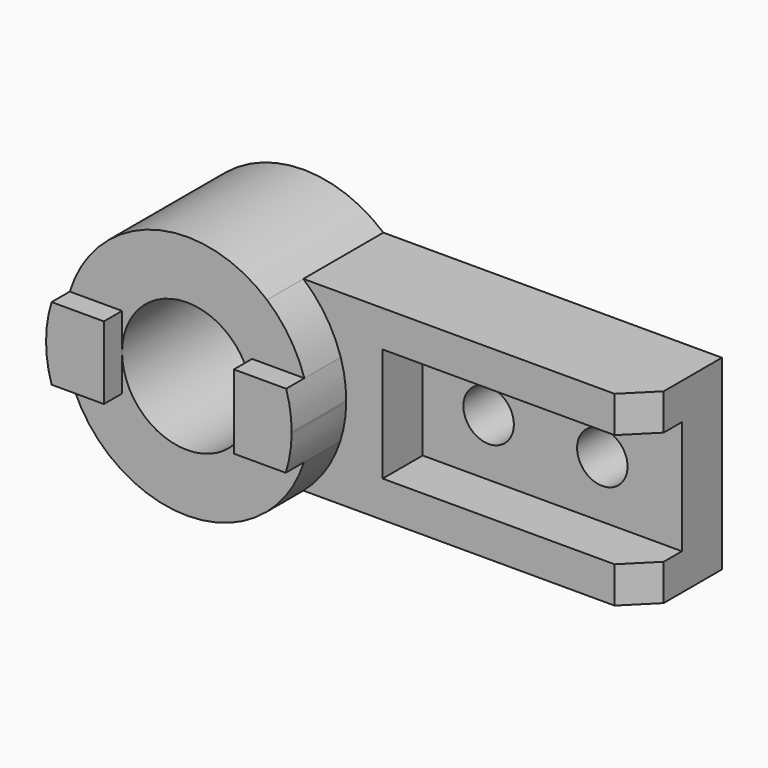
from build123d import *

# Parameters (mm, degrees)
F0_R     = 11.1
F1_DEPTH = 22
F2_DEPTH = 44
F3_DEPTH = 64
F4_DEPTH = 74
F5_SIZE  = 12


with BuildPart() as f1:
    # F0 (on Front) → F1 (new body)
    with BuildSketch(Plane.XZ):
        Polygon((184.0099021196, -25), (184.0099021196, 25), (70.0099021196, 25), (70.0099021196, 0), (70.0099021196, -25), align=None)
        with Locations((99.0099021196, 0)):
            Circle(F0_R, mode=Mode.SUBTRACT)
        with Locations((149.0099021196, 0)):
            Circle(F0_R, mode=Mode.SUBTRACT)
    extrude(amount=F1_DEPTH)

    # F0 (on Front) → F2 (join)
    with BuildSketch(Plane.XZ):
        with BuildLine():
            ThreePointArc((51.5751878329, 16), (53.3903556037, 8.0913489921), (54, 0))
            ThreePointArc((54, 0), (53.9991081797, -0.3103478577), (53.9964327484, -0.6206854644))
            ThreePointArc((53.9964327484, -0.6206854644), (53.2913728634, -8.7194941557), (51.3785248396, -16.6206854644))
            ThreePointArc((51.3785248396, -16.6206854644), (44.9451061645, -29.9322139486), (35.1425667816, -41))
            Line((35.1425667816, -41), (184.0099021196, -41))
            Line((184.0099021196, -41), (184.0099021196, -25))
            Line((184.0099021196, -25), (70.0099021196, -25))
            Line((70.0099021196, -25), (70.0099021196, 0))
            Line((70.0099021196, 0), (70.0099021196, 25))
            Line((70.0099021196, 25), (184.0099021196, 25))
            Line((184.0099021196, 25), (184.0099021196, 41))
            Line((184.0099021196, 41), (35.1425667816, 41))
            ThreePointArc((35.1425667816, 41), (45.1247409006, 29.6607106903), (51.5751878329, 16))
        make_face()
    extrude(amount=F2_DEPTH)

    # F0 (on Front) → F3 (join)
    with BuildSketch(Plane.XZ):
        with BuildLine():
            Line((28.575, 16), (51.5751878329, 16))
            ThreePointArc((51.5751878329, 16), (45.1247409006, 29.6607106903), (35.1425667816, 41))
            ThreePointArc((35.1425667816, 41), (-14.9585346426, 51.8868214612), (-51.5751878329, 16))
            Line((-51.5751878329, 16), (-28.575, 16))
            Line((-28.575, 16), (-28.575, 0))
            ThreePointArc((-28.575, 0), (0, 28.575), (28.575, 0))
            Line((28.575, 0), (28.575, 16))
        make_face()
        with BuildLine():
            ThreePointArc((35.1425667816, -41), (44.9451061645, -29.9322139486), (51.3785248396, -16.6206854644))
            Line((51.3785248396, -16.6206854644), (28.575, -16.6206854644))
            Line((28.575, -16.6206854644), (28.575, -0.6206854644))
            Line((28.575, -0.6206854644), (28.575, 0))
            ThreePointArc((28.575, 0), (0, -28.575), (-28.575, 0))
            Line((-28.575, 0), (-28.575, -16))
            Line((-28.575, -16), (-51.5751878329, -16))
            ThreePointArc((-51.5751878329, -16), (-14.9585346426, -51.8868214612), (35.1425667816, -41))
        make_face()
    extrude(amount=F3_DEPTH)

    # F0 (on Front) → F4 (join)
    with BuildSketch(Plane.XZ):
        with BuildLine():
            ThreePointArc((53.9964327484, -0.6206854644), (53.9991081797, -0.3103478577), (54, 0))
            ThreePointArc((54, 0), (53.3903556037, 8.0913489921), (51.5751878329, 16))
            Line((51.5751878329, 16), (28.575, 16))
            Line((28.575, 16), (28.575, 0))
            Line((28.575, 0), (28.575, -0.6206854644))
            Line((28.575, -0.6206854644), (28.575, -16.6206854644))
            Line((28.575, -16.6206854644), (51.3785248396, -16.6206854644))
            ThreePointArc((51.3785248396, -16.6206854644), (53.2913728634, -8.7194941557), (53.9964327484, -0.6206854644))
        make_face()
        with BuildLine():
            Line((-28.575, 16), (-51.5751878329, 16))
            ThreePointArc((-51.5751878329, 16), (-54, 0), (-51.5751878329, -16))
            Line((-51.5751878329, -16), (-28.575, -16))
            Line((-28.575, -16), (-28.575, 0))
            Line((-28.575, 0), (-28.575, 16))
        make_face()
    extrude(amount=F4_DEPTH)

    # F5
    f5_edges = [f1.edges().sort_by_distance(p)[0] for p in [
        (184.009902, -44, 33),
        (184.009902, -44, -33),
    ]]
    chamfer(f5_edges, length=F5_SIZE)


solid = f1.part
